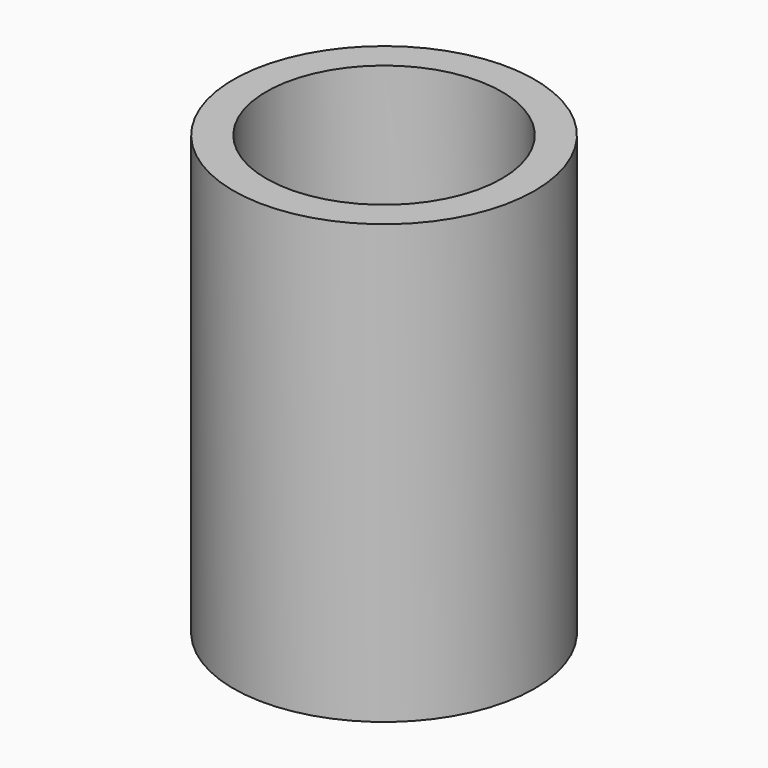
from build123d import *

# Parameters (mm, degrees)
F0_R     = 17.4625
F1_DEPTH = 50.8
F2_R     = 13.6525
F3_DEPTH = 25.4


with BuildPart() as f1:
    # F0 (on Top) → F1 (new body)
    with BuildSketch(Plane.XY):
        Circle(F0_R)
        Circle(F0_R)
    extrude(amount=F1_DEPTH)

    # F2 (on face) → F3 (cut)
    with BuildSketch(Plane.XY.offset(50.8)):
        Circle(F2_R)
    extrude(amount=-F3_DEPTH, mode=Mode.SUBTRACT)


solid = f1.part
